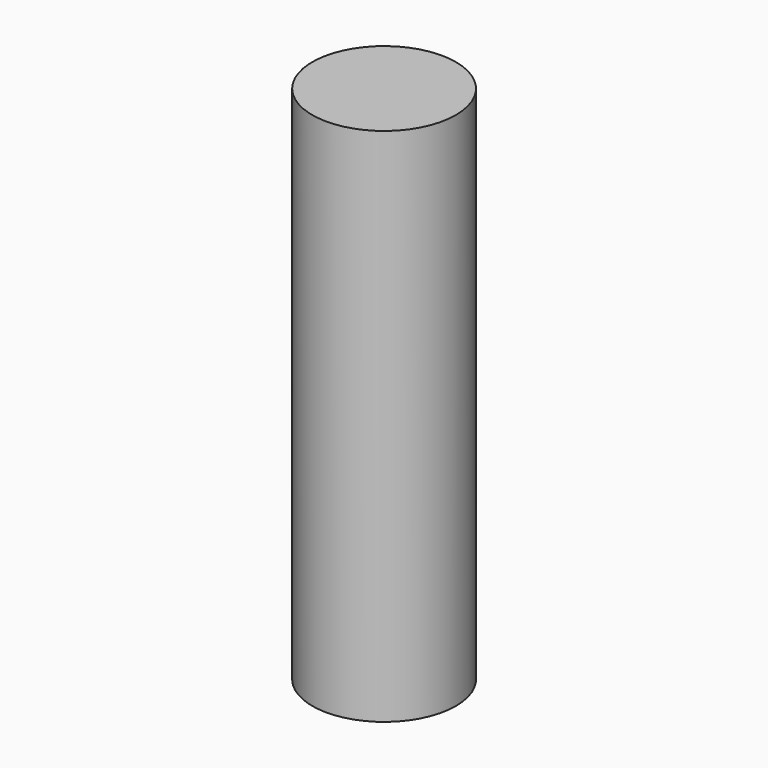
from build123d import *

# Parameters (mm, degrees)
CYLINDER_R     = 2.0701
CYLINDER_DEPTH = 15


with BuildPart() as part:
    # Cylinder → Cylinder (new body)
    with BuildSketch(Plane.XY.offset(-2.5)):
        Circle(CYLINDER_R)
    extrude(amount=CYLINDER_DEPTH)


solid = part.part
